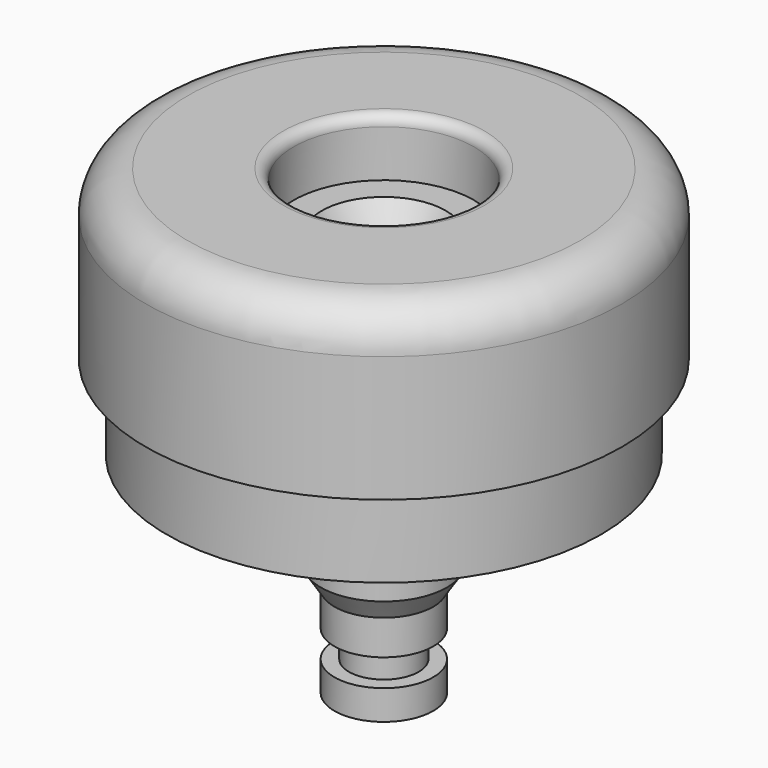
from build123d import *


with BuildPart() as f1:
    # F0 (on Front) → F1 (revolve)
    with BuildSketch(Plane.XZ):
        with BuildLine():
            Line((9.35, 22), (4.8, 22))
            ThreePointArc((4.8, 22), (4.446447, 21.853553), (4.3, 21.5))
            Line((4.3, 21.5), (4.3, 19.259281))
            Line((4.3, 19.259281), (2.95042, 19.259281))
            Line((2.95042, 19.259281), (1.14812, 16.107404))
            Line((1.14812, 16.107404), (1.14812, 0))
            Line((1.14812, 0), (2.353514, 0))
            Line((2.353514, 0), (2.353514, 1.41467))
            Line((2.353514, 1.41467), (1.660851, 1.41467))
            Line((1.660851, 1.41467), (1.660851, 2.707641))
            Line((1.660851, 2.707641), (2.353514, 2.707641))
            Line((2.353514, 2.707641), (2.353514, 4.370033))
            Line((2.353514, 4.370033), (3, 5.38594))
            Line((3, 5.38594), (3, 13.310127))
            Line((3, 13.310127), (5.124168, 13.310127))
            Line((5.124168, 13.310127), (5.124168, 17.200126))
            Line((5.124168, 17.200126), (8.67984, 17.200126))
            Line((8.67984, 17.200126), (8.67984, 10))
            Line((8.67984, 10), (10.35, 10))
            Line((10.35, 10), (10.35, 14))
            Line((10.35, 14), (11.35, 14))
            Line((11.35, 14), (11.35, 20))
            ThreePointArc((11.35, 20), (10.764214, 21.414214), (9.35, 22))
        make_face()
    revolve(axis=Axis((0, 0, 11), (0, 0, 1)))


solid = f1.part
